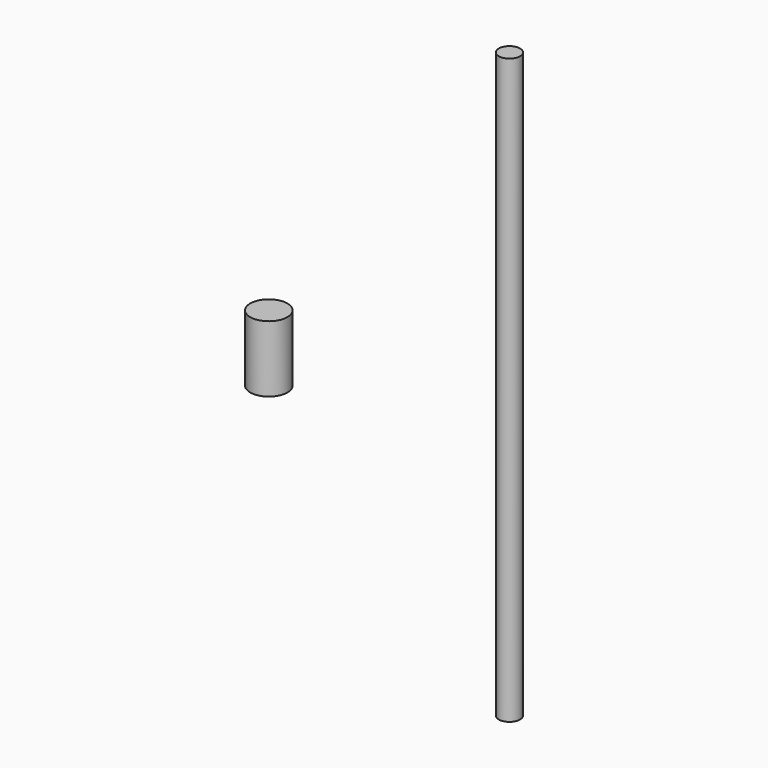
from build123d import *

# Parameters (mm, degrees)
F0_R     = 4
F1_DEPTH = 110
F2_R     = 7
F3_DEPTH = 25


with BuildPart() as f1:
    # F0 (on Top) → F1 (new body, symmetric)
    with BuildSketch(Plane.XY):
        Circle(F0_R)
    extrude(amount=F1_DEPTH, both=True)


with BuildPart() as f3:
    # F2 (on Top) → F3 (new body)
    with BuildSketch(Plane.XY):
        with Locations((-54.6167977154, -45.0377874076)):
            Circle(F2_R)
    extrude(amount=F3_DEPTH)


solid = Compound([f1.part, f3.part])
